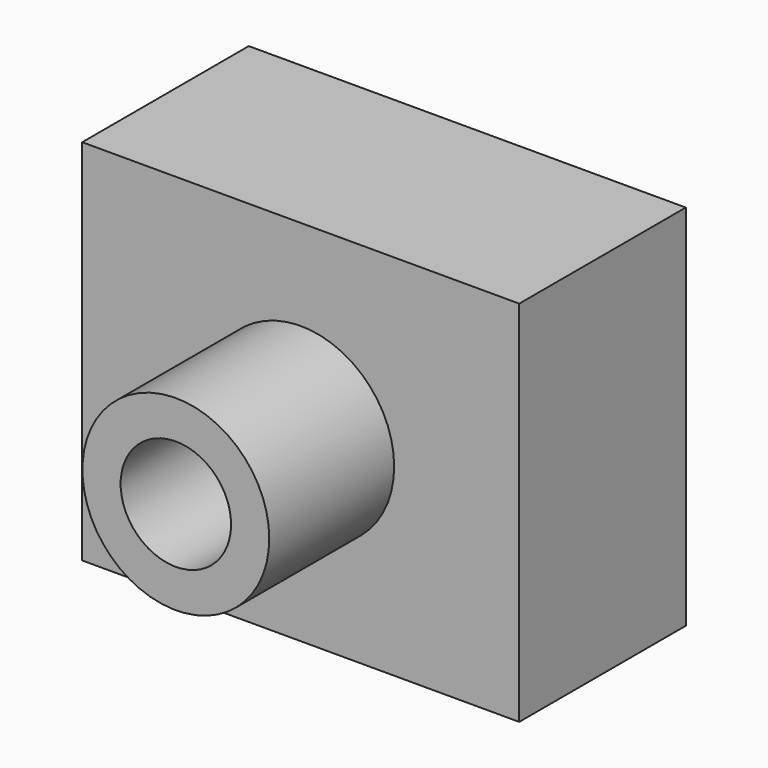
from build123d import *

# Parameters (mm, degrees)
F0_R     = 22.799562
F0_R_2   = 13.477557
F1_DEPTH = 50.8
F2_DEPTH = 38.1


with BuildPart() as f1:
    # F0 (on Front) → F1 (new body)
    with BuildSketch(Plane.XZ):
        Polygon((53.325333, 44.9339), (0, 44.9339), (-53.325333, 44.9339), (-53.325333, 0), (-53.325333, -44.9339), (0, -44.9339), (53.325333, -44.9339), (53.325333, 0), align=None)
        Circle(F0_R, mode=Mode.SUBTRACT)
        Circle(F0_R)
        Circle(F0_R_2, mode=Mode.SUBTRACT)
    extrude(amount=-F1_DEPTH)

    # F0 (on Front) → F2 (join)
    with BuildSketch(Plane.XZ):
        Circle(F0_R)
        Circle(F0_R_2, mode=Mode.SUBTRACT)
    extrude(amount=F2_DEPTH)


solid = f1.part
